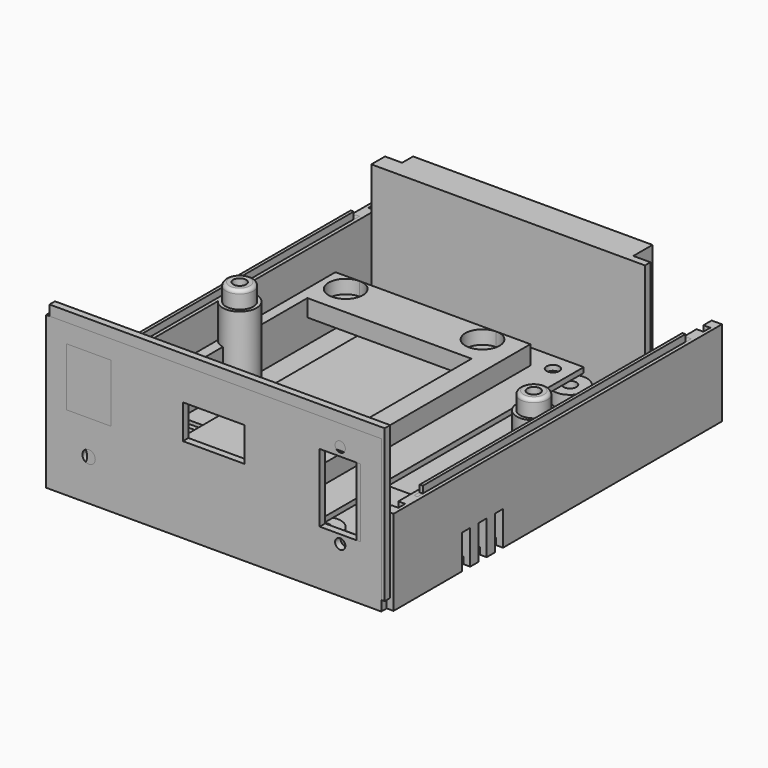
from build123d import *

# Parameters (mm, degrees)
PAD001_DEPTH    = 35
PAD002_DEPTH    = 36
SKETCH006_W     = 50
SKETCH006_H     = 100
PAD003_DEPTH    = 1.5
SKETCH008_R     = 1.88
POCKET003_DEPTH = 1.501
SKETCH_W        = 100
SKETCH_H        = 120
PAD_DEPTH       = 25
POCKET_DEPTH    = 22
SKETCH003_W     = 94
SKETCH003_H     = 22
POCKET001_DEPTH = 120.001
SKETCH009_R     = 5
PAD007_DEPTH    = 22
SKETCH005_W     = 98
SKETCH005_H     = 2.5
POCKET011_DEPTH = 2
SKETCH007_R     = 5
PAD009_DEPTH    = 4
SKETCH010_R     = 1.88
POCKET006_DEPTH = 7.001
SKETCH011_R     = 4
PAD010_DEPTH    = 5
SKETCH012_R     = 1.88
POCKET007_DEPTH = 30.001
SKETCH013_R     = 3
POCKET008_DEPTH = 4
POCKET009_DEPTH = 20
SKETCH015_W     = 30
SKETCH015_H     = 3
POCKET010_DEPTH = 10
FILLET_R        = 1
SKETCH026_W     = 0.9
SKETCH026_H     = 96
PAD013_DEPTH    = 2
SKETCH027_W     = 70
SKETCH027_H     = 75
POCKET020_DEPTH = 2
SKETCH016_W     = 98
SKETCH016_H     = 44.5
PAD011_DEPTH    = 2
SKETCH017_R     = 1.88
SKETCH017_R_2   = 3.5
SKETCH017_W     = 71.5
SKETCH017_H     = 26.5
POCKET012_DEPTH = 2.001
SKETCH018_W     = 98
SKETCH018_H     = 44.5
PAD012_DEPTH    = 2
SKETCH019_W     = 18
SKETCH019_H     = 10
POCKET013_DEPTH = 2.001
SKETCH020_R     = 1.88
SKETCH020_R_2   = 1.5
SKETCH020_W     = 13
SKETCH020_H     = 17
SKETCH020_W_2   = 12
SKETCH020_H_2   = 20
POCKET014_DEPTH = 2.001
SKETCH021_R     = 4
POCKET015_DEPTH = 10
SKETCH022_R     = 1.88
POCKET016_DEPTH = 25.001
SKETCH023_R     = 4
POCKET017_DEPTH = 3
SKETCH024_W     = 30
SKETCH024_H     = 3
POCKET018_DEPTH = 10
SKETCH025_W     = 1
SKETCH025_H     = 100
POCKET019_DEPTH = 3
SKETCH028_W     = 70
SKETCH028_H     = 100
POCKET021_DEPTH = 2
SKETCH029_W     = 60
SKETCH029_H     = 100
PAD014_DEPTH    = 15
SKETCH031_R     = 5
POCKET022_DEPTH = 4
SKETCH032_W     = 48
SKETCH032_H     = 10
POCKET023_DEPTH = 100.001
SKETCH033_W     = 1.5
SKETCH033_H     = 2
POCKET024_DEPTH = 100.001
SKETCH034_W     = 48
SKETCH034_H     = 72
POCKET025_DEPTH = 5.001
SKETCH035_R     = 1.88
POCKET026_DEPTH = 15.001
SKETCH036_W     = 98
SKETCH036_H     = 44.5
SKETCH036_R     = 4
SKETCH036_R_2   = 2.5
SKETCH036_R_3   = 1.5
SKETCH036_W_2   = 12
SKETCH036_H_2   = 20
PAD015_DEPTH    = 2


with BuildPart() as lcd1602_display:
    # Sketch002 → Pad001 (new body)
    with BuildSketch(Plane.XY):
        Polygon((0, 0), (80, 0), (80, 2), (75, 2), (75, 9), (5, 9), (5, 5), (0, 5), align=None)
    extrude(amount=PAD001_DEPTH)

    # Sketch002 → Pad002 (join)
    with BuildSketch(Plane.XY):
        Polygon((0, 0), (80, 0), (80, 2), (75, 2), (75, 9), (5, 9), (5, 5), (0, 5), align=None)
    extrude(amount=PAD002_DEPTH)


with BuildPart() as lcd1602_display_1:
    # Body001 placement: moved
    add(lcd1602_display.part.moved(Location((5.5, 110, 3.5))))


with BuildPart() as board:
    # Sketch006 → Pad003 (new body)
    with BuildSketch(Plane.XY):
        with Locations((25, 50)):
            Rectangle(SKETCH006_W, SKETCH006_H)
    extrude(amount=PAD003_DEPTH)

    # Sketch008 → Pocket003 (cut, through all)
    with BuildSketch(Plane.XY):
        with Locations((45, 95)):
            Circle(SKETCH008_R)
        with Locations((5, 5)):
            Circle(SKETCH008_R)
        with Locations((45, 5)):
            Circle(SKETCH008_R)
        with Locations((5, 95)):
            Circle(SKETCH008_R)
    extrude(amount=POCKET003_DEPTH, mode=Mode.SUBTRACT)


with BuildPart() as board_1:
    # Body002 placement: moved
    add(board.part.moved(Location((20, 7, 8))))


with BuildPart() as obj1:
    # Sketch → Pad (new body)
    with BuildSketch(Plane.XY):
        with Locations((50, 60)):
            Rectangle(SKETCH_W, SKETCH_H)
    extrude(amount=PAD_DEPTH)

    # Sketch001 (on Face6 of Pad) → Pocket (cut)
    with BuildSketch(Plane.XY.offset(25)):
        Polygon((3, 117), (1, 117), (1, 114.5), (3, 114.5), (3, 5.5), (1, 5.5), (1, 3), (3, 3), (97, 3), (99, 3), (99, 5.5), (97, 5.5), (97, 114.5), (99, 114.5), (99, 117), (97, 117), align=None)
    extrude(amount=-POCKET_DEPTH, mode=Mode.SUBTRACT)

    # Sketch003 → Pocket001 (cut, through all)
    with BuildSketch(Plane.XZ):
        with Locations((50, 14)):
            Rectangle(SKETCH003_W, SKETCH003_H)
    extrude(amount=-POCKET001_DEPTH, mode=Mode.SUBTRACT)

    # Sketch009 (on DatumPlane) → Pad007 (join)
    with BuildSketch(Plane.XY.offset(3)):
        with Locations((7, 60)):
            Circle(SKETCH009_R)
        with Locations((93, 60)):
            Circle(SKETCH009_R)
    extrude(amount=PAD007_DEPTH)

    # Sketch005 (on Face19 of Pocket001) → Pocket011 (cut)
    with BuildSketch(Plane.XY.offset(3)):
        with Locations((50, 115.75)):
            Rectangle(SKETCH005_W, SKETCH005_H)
        with Locations((50, 4.25)):
            Rectangle(SKETCH005_W, SKETCH005_H)
    extrude(amount=-POCKET011_DEPTH, mode=Mode.SUBTRACT)


with BuildPart() as obj2:
    # Body003 base: copy of obj1
    add(obj1.part)

    # Sketch007 (on Face36 of BaseFeature) → Pad009 (new body)
    with BuildSketch(Plane.XY.offset(3)):
        with Locations((30, 12)):
            Circle(SKETCH007_R)
        with Locations((70, 12)):
            Circle(SKETCH007_R)
        with Locations((30, 102)):
            Circle(SKETCH007_R)
        with Locations((70, 102)):
            Circle(SKETCH007_R)
    extrude(amount=PAD009_DEPTH)

    # Sketch010 → Pocket006 (cut, through all)
    with BuildSketch(Plane.XY.offset(7)):
        with Locations((30, 102)):
            Circle(SKETCH010_R)
        with Locations((70, 102)):
            Circle(SKETCH010_R)
        with Locations((30, 12)):
            Circle(SKETCH010_R)
        with Locations((70, 12)):
            Circle(SKETCH010_R)
    extrude(amount=-POCKET006_DEPTH, mode=Mode.SUBTRACT)

    # Sketch011 (on Face107 of Pocket010) → Pad010 (join)
    with BuildSketch(Plane.XY.offset(25)):
        with Locations((7, 60)):
            Circle(SKETCH011_R)
        with Locations((93, 60)):
            Circle(SKETCH011_R)
    extrude(amount=PAD010_DEPTH)

    # Sketch012 (on DatumPlane) → Pocket007 (cut, through all)
    with BuildSketch(Plane.XY.offset(30)):
        with Locations((7, 60)):
            Circle(SKETCH012_R)
        with Locations((93, 60)):
            Circle(SKETCH012_R)
    extrude(amount=-POCKET007_DEPTH, mode=Mode.SUBTRACT)

    # Sketch013 (on DatumPlane) → Pocket008 (cut)
    with BuildSketch(Plane(origin=(0, 0, 0), x_dir=(1, 0, 0), z_dir=(0, 0, -1))):
        with Locations((30, -102)):
            Circle(SKETCH013_R)
        with Locations((70, -102)):
            Circle(SKETCH013_R)
        with Locations((30, -12)):
            Circle(SKETCH013_R)
        with Locations((70, -12)):
            Circle(SKETCH013_R)
    extrude(amount=-POCKET008_DEPTH, mode=Mode.SUBTRACT)

    # Sketch014 (on DatumPlane) → Pocket009 (cut)
    with BuildSketch(Plane(origin=(0, 0, 0), x_dir=(1, 0, 0), z_dir=(0, 0, -1))):
        Polygon((10.233162, -60), (8.616581, -57.2), (5.383419, -57.2), (3.766838, -60), (5.383419, -62.8), (8.616581, -62.8), align=None)
        Polygon((94.616581, -62.8), (96.233162, -60), (94.616581, -57.2), (91.383419, -57.2), (89.766838, -60), (91.383419, -62.8), align=None)
    extrude(amount=-POCKET009_DEPTH, mode=Mode.SUBTRACT)

    # Sketch015 (on DatumPlane) → Pocket010 (cut)
    with BuildSketch(Plane(origin=(0, 0, 0), x_dir=(1, 0, 0), z_dir=(0, 0, -1))):
        with Locations((15, -26.5)):
            Rectangle(SKETCH015_W, SKETCH015_H)
        with Locations((15, -32.5)):
            Rectangle(SKETCH015_W, SKETCH015_H)
        with Locations((15, -38.5)):
            Rectangle(SKETCH015_W, SKETCH015_H)
        with Locations((15, -76.5)):
            Rectangle(SKETCH015_W, SKETCH015_H)
        with Locations((15, -82.5)):
            Rectangle(SKETCH015_W, SKETCH015_H)
        with Locations((15, -88.5)):
            Rectangle(SKETCH015_W, SKETCH015_H)
        with Locations((85, -26.5)):
            Rectangle(SKETCH015_W, SKETCH015_H)
        with Locations((85, -32.5)):
            Rectangle(SKETCH015_W, SKETCH015_H)
        with Locations((85, -38.5)):
            Rectangle(SKETCH015_W, SKETCH015_H)
        with Locations((85, -76.5)):
            Rectangle(SKETCH015_W, SKETCH015_H)
        with Locations((85, -82.5)):
            Rectangle(SKETCH015_W, SKETCH015_H)
        with Locations((85, -88.5)):
            Rectangle(SKETCH015_W, SKETCH015_H)
    extrude(amount=-POCKET010_DEPTH, mode=Mode.SUBTRACT)

    # Fillet
    fillet_edges = [obj2.edges().sort_by_distance(p)[0] for p in [
        (3, 60, 30),
        (89, 60, 30),
    ]]
    fillet(fillet_edges, radius=FILLET_R)

    # Sketch026 (on Face89 of Fillet) → Pad013 (join)
    with BuildSketch(Plane.XY.offset(25)):
        with Locations((1.5, 60)):
            Rectangle(SKETCH026_W, SKETCH026_H)
        with Locations((98.5, 60)):
            Rectangle(SKETCH026_W, SKETCH026_H)
    extrude(amount=PAD013_DEPTH)

    # Sketch027 (on Face9 of Fillet) → Pocket020 (cut)
    with BuildSketch(Plane.XY.offset(3)):
        with Locations((50, 57.065217)):
            Rectangle(SKETCH027_W, SKETCH027_H)
    extrude(amount=-POCKET020_DEPTH, mode=Mode.SUBTRACT)


with BuildPart() as body004:
    # Sketch016 → Pad011 (new body)
    with BuildSketch(Plane.XZ):
        with Locations((49, 22.25)):
            Rectangle(SKETCH016_W, SKETCH016_H)
    extrude(amount=PAD011_DEPTH)

    # Sketch017 → Pocket012 (cut, through all)
    with BuildSketch(Plane.XZ):
        with Locations((16.5, 37.9)):
            Circle(SKETCH017_R)
        with Locations((91.5, 37.9)):
            Circle(SKETCH017_R)
        with Locations((16.5, 6.4)):
            Circle(SKETCH017_R)
        with Locations((91.5, 6.4)):
            Circle(SKETCH017_R)
        with Locations((7.5, 9)):
            Circle(SKETCH017_R_2)
        with Locations((54.05, 21.25)):
            Rectangle(SKETCH017_W, SKETCH017_H)
    extrude(amount=POCKET012_DEPTH, mode=Mode.SUBTRACT)


with BuildPart() as body004_1:
    # Body004 placement: moved
    add(body004.part.moved(Location((1, 0, 3))))


with BuildPart() as obj3:
    # Sketch018 → Pad012 (new body)
    with BuildSketch(Plane.XZ):
        with Locations((49, 22.25)):
            Rectangle(SKETCH018_W, SKETCH018_H)
    extrude(amount=PAD012_DEPTH)

    # Sketch019 (on DatumPlane) → Pocket013 (cut, through all)
    with BuildSketch(Plane.XZ.offset(2)):
        with Locations((49, 30)):
            Rectangle(SKETCH019_W, SKETCH019_H)
    extrude(amount=-POCKET013_DEPTH, mode=Mode.SUBTRACT)

    # Sketch020 (on DatumPlane) → Pocket014 (cut, through all)
    with BuildSketch(Plane.XZ.offset(2)):
        with Locations((12.5, 12)):
            Circle(SKETCH020_R)
        with Locations((86, 38.5)):
            Circle(SKETCH020_R_2)
        with Locations((86, 13.5)):
            Circle(SKETCH020_R_2)
        with Locations((12.5, 30.5)):
            Rectangle(SKETCH020_W, SKETCH020_H)
        with Locations((86, 26)):
            Rectangle(SKETCH020_W_2, SKETCH020_H_2)
    extrude(amount=-POCKET014_DEPTH, mode=Mode.SUBTRACT)


with BuildPart() as obj4:
    # Body006 base: copy of obj1
    add(obj1.part)

    # Sketch021 (on Face45 of BaseFeature001) → Pocket015 (cut)
    with BuildSketch(Plane.XY.offset(25)):
        with Locations((7, 60)):
            Circle(SKETCH021_R)
        with Locations((93, 60)):
            Circle(SKETCH021_R)
    extrude(amount=-POCKET015_DEPTH, mode=Mode.SUBTRACT)

    # Sketch022 → Pocket016 (cut, through all)
    with BuildSketch(Plane.XY):
        with Locations((7, 60)):
            Circle(SKETCH022_R)
        with Locations((93, 60)):
            Circle(SKETCH022_R)
    extrude(amount=POCKET016_DEPTH, mode=Mode.SUBTRACT)

    # Sketch023 (on Face2 of Pocket016) → Pocket017 (cut)
    with BuildSketch(Plane(origin=(0, 0, 0), x_dir=(1, 0, 0), z_dir=(0, 0, -1))):
        with Locations((93, -60)):
            Circle(SKETCH023_R)
        with Locations((7, -60)):
            Circle(SKETCH023_R)
    extrude(amount=-POCKET017_DEPTH, mode=Mode.SUBTRACT)

    # Sketch024 (on Face2 of Pocket017) → Pocket018 (cut)
    with BuildSketch(Plane(origin=(0, 0, 0), x_dir=(1, 0, 0), z_dir=(0, 0, -1))):
        with Locations((85, -32.5)):
            Rectangle(SKETCH024_W, SKETCH024_H)
        with Locations((85, -38.5)):
            Rectangle(SKETCH024_W, SKETCH024_H)
        with Locations((85, -26.5)):
            Rectangle(SKETCH024_W, SKETCH024_H)
        with Locations((15, -26.5)):
            Rectangle(SKETCH024_W, SKETCH024_H)
        with Locations((15, -32.5)):
            Rectangle(SKETCH024_W, SKETCH024_H)
        with Locations((15, -38.5)):
            Rectangle(SKETCH024_W, SKETCH024_H)
    extrude(amount=-POCKET018_DEPTH, mode=Mode.SUBTRACT)

    # Sketch025 (on Face8 of Pocket018) → Pocket019 (cut)
    with BuildSketch(Plane.XY.offset(25)):
        with Locations((1.5, 60)):
            Rectangle(SKETCH025_W, SKETCH025_H)
        with Locations((98.5, 60)):
            Rectangle(SKETCH025_W, SKETCH025_H)
    extrude(amount=-POCKET019_DEPTH, mode=Mode.SUBTRACT)

    # Sketch028 (on Face66 of Pocket019) → Pocket021 (cut)
    with BuildSketch(Plane.XY.offset(3)):
        with Locations((50, 60)):
            Rectangle(SKETCH028_W, SKETCH028_H)
    extrude(amount=-POCKET021_DEPTH, mode=Mode.SUBTRACT)


with BuildPart() as obj5:
    # Sketch029 → Pad014 (new body)
    with BuildSketch(Plane.XY):
        with Locations((30, 50)):
            Rectangle(SKETCH029_W, SKETCH029_H)
    extrude(amount=PAD014_DEPTH)

    # Sketch031 (on Face6 of Pad014) → Pocket022 (cut)
    with BuildSketch(Plane.XY.offset(15)):
        with Locations((10, 95)):
            Circle(SKETCH031_R)
        with Locations((50, 95)):
            Circle(SKETCH031_R)
        with Locations((50, 5)):
            Circle(SKETCH031_R)
        with Locations((10, 5)):
            Circle(SKETCH031_R)
    extrude(amount=-POCKET022_DEPTH, mode=Mode.SUBTRACT)

    # Sketch032 → Pocket023 (cut, through all)
    with BuildSketch(Plane.XZ):
        with Locations((30, 5)):
            Rectangle(SKETCH032_W, SKETCH032_H)
    extrude(amount=-POCKET023_DEPTH, mode=Mode.SUBTRACT)

    # Sketch033 (on Face1 of Pocket023) → Pocket024 (cut, through all)
    with BuildSketch(Plane.XZ):
        with Locations((5.25, 2)):
            Rectangle(SKETCH033_W, SKETCH033_H)
        with Locations((54.75, 2)):
            Rectangle(SKETCH033_W, SKETCH033_H)
    extrude(amount=-POCKET024_DEPTH, mode=Mode.SUBTRACT)

    # Sketch034 (on Face8 of Pocket024) → Pocket025 (cut, through all)
    with BuildSketch(Plane(origin=(0, 0, 10), x_dir=(1, 0, 0), z_dir=(0, 0, -1))):
        with Locations((30, -50)):
            Rectangle(SKETCH034_W, SKETCH034_H)
    extrude(amount=-POCKET025_DEPTH, mode=Mode.SUBTRACT)

    # Sketch035 → Pocket026 (cut, through all)
    with BuildSketch(Plane.XY):
        with Locations((10, 95)):
            Circle(SKETCH035_R)
        with Locations((50, 95)):
            Circle(SKETCH035_R)
        with Locations((10, 5)):
            Circle(SKETCH035_R)
        with Locations((50, 5)):
            Circle(SKETCH035_R)
    extrude(amount=POCKET026_DEPTH, mode=Mode.SUBTRACT)


with BuildPart() as obj6:
    # Sketch036 → Pad015 (new body)
    with BuildSketch(Plane.XY):
        with Locations((49, 22.25)):
            Rectangle(SKETCH036_W, SKETCH036_H)
        with Locations((10, 10)):
            Circle(SKETCH036_R, mode=Mode.SUBTRACT)
        with Locations((10, 25)):
            Circle(SKETCH036_R_2, mode=Mode.SUBTRACT)
        with Locations((89, 35)):
            Circle(SKETCH036_R_3, mode=Mode.SUBTRACT)
        with Locations((89, 10)):
            Circle(SKETCH036_R_3, mode=Mode.SUBTRACT)
        with Locations((89, 22.5)):
            Rectangle(SKETCH036_W_2, SKETCH036_H_2, mode=Mode.SUBTRACT)
    extrude(amount=PAD015_DEPTH)


solid = Compound([lcd1602_display_1.part, board_1.part, obj2.part, body004_1.part, obj3.part, obj4.part, obj5.part, obj6.part])
